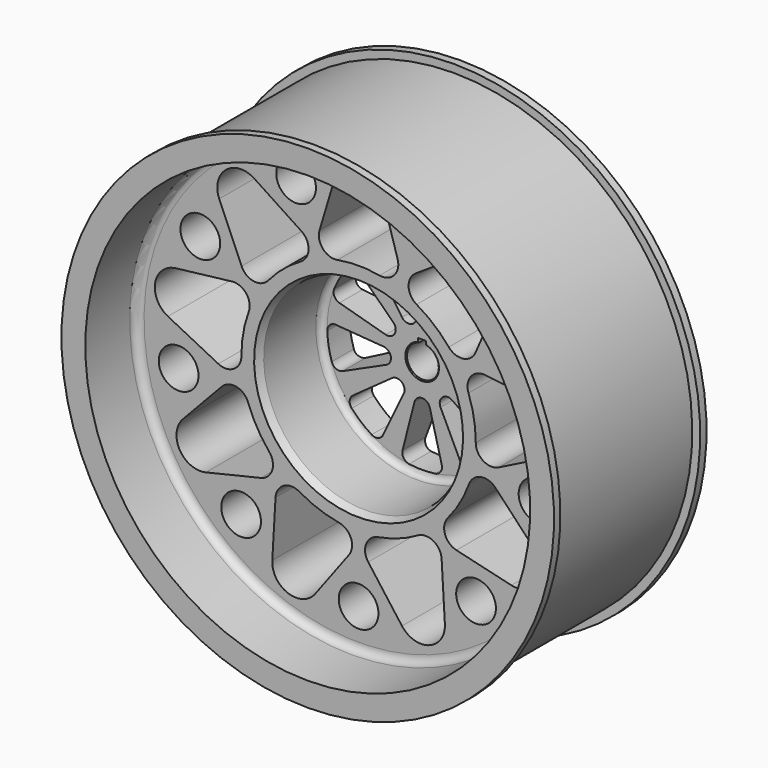
from build123d import *

# Parameters (mm, degrees)
F2_W      = 3.175
F2_H      = 3.175
F3_DEPTH  = 76.201
F5_DEPTH  = 48.0271238716
F6_R      = 7.9375
F7_DEPTH  = 50.8
F8_SIZE2  = 3.175
F8_SIZE   = 1.27
F9_SIZE   = 0.381
F11_DEPTH = 18.4485631489


with BuildPart() as f1:
    # F0 (on Right) → F1 (revolve)
    with BuildSketch(Plane.YZ):
        with BuildLine():
            Line((34.925, 95.25), (-34.925, 95.25))
            Line((-34.925, 95.25), (-34.925, 98.425))
            Line((-34.925, 98.425), (-38.1, 98.425))
            Line((-38.1, 98.425), (-38.1, 88.9))
            Line((-38.1, 88.9), (-15.875, 88.9))
            ThreePointArc((-15.875, 88.9), (-13.6299359697, 87.9700640303), (-12.7, 85.725))
            Line((-12.7, 85.725), (-12.7, 40.48125))
            Line((-12.7, 40.48125), (16.51, 40.48125))
            ThreePointArc((16.51, 40.48125), (18.3060512242, 39.7373012242), (19.05, 37.94125))
            Line((19.05, 37.94125), (19.05, 6.35))
            Line((19.05, 6.35), (38.1, 6.35))
            Line((38.1, 6.35), (38.1, 11.43))
            ThreePointArc((38.1, 11.43), (29.2175591667, 50.165), (38.1, 88.9))
            Line((38.1, 88.9), (38.1, 98.425))
            Line((38.1, 98.425), (34.925, 98.425))
            Line((34.925, 98.425), (34.925, 95.25))
        make_face()
    revolve(axis=Axis((0, 3.5200826824, 0), (0, 1, 0)))

    # F2 (on face) → F3 (cut, through all)
    with BuildSketch(Plane(origin=(0, 38.1, 0), x_dir=(-1, 0, 0), z_dir=(0, 1, 0))):
        with Locations((0, 6.35)):
            Rectangle(F2_W, F2_H)
    extrude(amount=-F3_DEPTH, mode=Mode.SUBTRACT)

    # F4 (on face) → F5 (cut, through all)
    with BuildSketch(Plane.XZ.offset(12.7)):
        with BuildLine():
            ThreePointArc((-8.3876865672, 46.0739914769), (0, 46.83125), (8.3876865672, 46.0739914769))
            ThreePointArc((8.3876865672, 46.0739914769), (14.2580132906, 48.0879820832), (15.6072668855, 54.1457381643))
            Line((15.6072668855, 54.1457381643), (9.1234003283, 75.7616387138))
            ThreePointArc((9.1234003283, 75.7616387138), (0, 82.55), (-9.1234003283, 75.7616387138))
            Line((-9.1234003283, 75.7616387138), (-15.6072668855, 54.1457381643))
            ThreePointArc((-15.6072668855, 54.1457381643), (-14.2580132906, 48.0879820832), (-8.3876865672, 46.0739914769))
        make_face()
        with BuildLine():
            Line((-22.8483495394, 51.5101996144), (-41.7097125309, 63.9011910275))
            ThreePointArc((-41.7097125309, 63.9011910275), (-53.0621171796, 63.2369687795), (-55.6875727786, 52.172373649))
            Line((-55.6875727786, 52.172373649), (-46.7600696793, 31.4458840643))
            ThreePointArc((-46.7600696793, 31.4458840643), (-41.8326309091, 27.6726571737), (-36.0411315356, 29.9032241439))
            ThreePointArc((-36.0411315356, 29.9032241439), (-30.1025472461, 35.8748188268), (-23.1904501648, 40.6862261425))
            ThreePointArc((-23.1904501648, 40.6862261425), (-19.9880872067, 46.0024057376), (-22.8483495394, 51.5101996144))
        make_face()
        with BuildLine():
            Line((-50.6129692837, 24.7724661929), (-73.0263873451, 22.1406658768))
            ThreePointArc((-73.0263873451, 22.1406658768), (-81.2958800112, 14.3346570664), (-76.1949110274, 4.1710751226))
            Line((-76.1949110274, 4.1710751226), (-56.0333161898, -5.9678486715))
            ThreePointArc((-56.0333161898, -5.9678486715), (-49.8332956073, -5.6910115747), (-46.8305305059, -0.2595941034))
            ThreePointArc((-46.8305305059, -0.2595941034), (-46.1197780833, 8.1321612204), (-43.9175175314, 16.260923419))
            ThreePointArc((-43.9175175314, 16.260923419), (-44.8815395572, 22.3917924875), (-50.6129692837, 24.7724661929))
        make_face()
        with BuildLine():
            Line((-54.6952181997, -13.5565794756), (-70.1732039226, -29.9797229037))
            ThreePointArc((-70.1732039226, -29.9797229037), (-71.4903970824, -41.275), (-61.0498035943, -45.7819158101))
            Line((-61.0498035943, -45.7819158101), (-39.0879513142, -40.5891586887))
            ThreePointArc((-39.0879513142, -40.5891586887), (-34.5164074555, -36.3917927587), (-35.7074037892, -30.3009453846))
            ThreePointArc((-35.7074037892, -30.3009453846), (-40.557052191, -23.415625), (-44.0950903563, -15.7730460923))
            ThreePointArc((-44.0950903563, -15.7730460923), (-48.7744207461, -11.6961893245), (-54.6952181997, -13.5565794756))
        make_face()
        with BuildLine():
            Line((-33.1849666504, -45.5423509429), (-34.4851984964, -68.0722661501))
            ThreePointArc((-34.4851984964, -68.0722661501), (-28.2337628315, -77.5716258459), (-17.3388145665, -74.3130395259))
            Line((-17.3388145665, -74.3130395259), (-3.8528996045, -56.2183502571))
            ThreePointArc((-3.8528996045, -56.2183502571), (-3.0489086481, -50.0644496612), (-7.8763859959, -46.1641475629))
            ThreePointArc((-7.8763859959, -46.1641475629), (-16.0172308371, -44.0069800472), (-23.6400803411, -40.4266320391))
            ThreePointArc((-23.6400803411, -40.4266320391), (-29.8452084006, -40.3113941629), (-33.1849666504, -45.5423509429))
        make_face()
        with BuildLine():
            Line((3.8528996045, -56.2183502571), (17.3388145665, -74.3130395259))
            ThreePointArc((17.3388145665, -74.3130395259), (28.2337628315, -77.5716258459), (34.4851984964, -68.0722661501))
            Line((34.4851984964, -68.0722661501), (33.1849666504, -45.5423509429))
            ThreePointArc((33.1849666504, -45.5423509429), (29.8452084006, -40.3113941629), (23.6400803411, -40.4266320391))
            ThreePointArc((23.6400803411, -40.4266320391), (16.0172308371, -44.0069800472), (7.8763859959, -46.1641475629))
            ThreePointArc((7.8763859959, -46.1641475629), (3.0489086481, -50.0644496612), (3.8528996045, -56.2183502571))
        make_face()
        with BuildLine():
            Line((39.0879513142, -40.5891586887), (61.0498035943, -45.7819158101))
            ThreePointArc((61.0498035943, -45.7819158101), (71.4903970824, -41.275), (70.1732039226, -29.9797229037))
            Line((70.1732039226, -29.9797229037), (54.6952181997, -13.5565794756))
            ThreePointArc((54.6952181997, -13.5565794756), (48.7744207461, -11.6961893245), (44.0950903563, -15.7730460923))
            ThreePointArc((44.0950903563, -15.7730460923), (40.557052191, -23.415625), (35.7074037892, -30.3009453846))
            ThreePointArc((35.7074037892, -30.3009453846), (34.5164074555, -36.3917927587), (39.0879513142, -40.5891586887))
        make_face()
        with BuildLine():
            Line((56.0333161898, -5.9678486715), (76.1949110274, 4.1710751226))
            ThreePointArc((76.1949110274, 4.1710751226), (81.2958800112, 14.3346570664), (73.0263873451, 22.1406658768))
            Line((73.0263873451, 22.1406658768), (50.6129692837, 24.7724661929))
            ThreePointArc((50.6129692837, 24.7724661929), (44.8815395572, 22.3917924875), (43.9175175314, 16.260923419))
            ThreePointArc((43.9175175314, 16.260923419), (46.1197780833, 8.1321612204), (46.8305305059, -0.2595941034))
            ThreePointArc((46.8305305059, -0.2595941034), (49.8332956073, -5.6910115747), (56.0333161898, -5.9678486715))
        make_face()
        with BuildLine():
            Line((46.7600696793, 31.4458840643), (55.6875727786, 52.172373649))
            ThreePointArc((55.6875727786, 52.172373649), (53.0621171796, 63.2369687795), (41.7097125309, 63.9011910275))
            Line((41.7097125309, 63.9011910275), (22.8483495394, 51.5101996144))
            ThreePointArc((22.8483495394, 51.5101996144), (19.9880872067, 46.0024057376), (23.1904501648, 40.6862261425))
            ThreePointArc((23.1904501648, 40.6862261425), (30.1025472461, 35.8748188268), (36.0411315356, 29.9032241439))
            ThreePointArc((36.0411315356, 29.9032241439), (41.8326309091, 27.6726571737), (46.7600696793, 31.4458840643))
        make_face()
    extrude(amount=-F5_DEPTH, mode=Mode.SUBTRACT)

    # F6 (on Front) → F7 (cut, symmetric)
    with BuildSketch(Plane.XZ):
        with Locations((0, -73.025)):
            Circle(F6_R)
        with Locations((46.9395651974, -55.9403954588)):
            Circle(F6_R)
        with Locations((71.9155861637, -12.6806581741)):
            Circle(F6_R)
        with Locations((63.2415051114, 36.5125)):
            Circle(F6_R)
        with Locations((24.9760209664, 68.6210536329)):
            Circle(F6_R)
        with Locations((-24.9760209664, 68.6210536329)):
            Circle(F6_R)
        with Locations((-63.2415051114, 36.5125)):
            Circle(F6_R)
        with Locations((-71.9155861637, -12.6806581741)):
            Circle(F6_R)
        with Locations((-46.9395651974, -55.9403954588)):
            Circle(F6_R)
    extrude(amount=F7_DEPTH, both=True, mode=Mode.SUBTRACT)

    # F8
    f8_edges = [f1.edges().sort_by_distance(p)[0] for p in [
        (0, -12.7, -40.48125),
    ]]
    f8_side = f1.faces().sort_by_distance((0, -12.7, -83.300331))[0]
    chamfer(f8_edges, length=F8_SIZE, length2=F8_SIZE2, reference=f8_side)

    # F9
    f9_edges = [f1.edges().sort_by_distance(p)[0] for p in [
        (0, 19.05, -6.35),
    ]]
    chamfer(f9_edges, length=F9_SIZE)

    # F10 (on face) → F11 (cut, through all)
    with BuildSketch(Plane.XZ.offset(-19.05)):
        with BuildLine():
            Line((7.8379030575, -33.64950652), (3.0754030575, -15.0859999785))
            ThreePointArc((3.0754030575, -15.0859999785), (0, -12.7), (-3.0754030575, -15.0859999785))
            Line((-3.0754030575, -15.0859999785), (-7.8379030575, -33.64950652))
            ThreePointArc((-7.8379030575, -33.64950652), (-7.3987546691, -36.2079093559), (-5.1974325501, -37.5835754878))
            ThreePointArc((-5.1974325501, -37.5835754878), (-5.266e-07, -37.94125), (5.1974315068, -37.5835756321))
            ThreePointArc((5.1974315068, -37.5835756321), (7.3987543756, -36.2079097932), (7.8379030575, -33.64950652))
        make_face()
        with BuildLine():
            Line((27.633667946, -20.7389105121), (12.0529892884, -9.5797154722))
            ThreePointArc((12.0529892884, -9.5797154722), (8.163402643, -9.7287644276), (7.3411984433, -13.5333774325))
            Line((7.3411984433, -13.5333774325), (15.6253037802, -30.8151244546))
            ThreePointArc((15.6253037802, -30.8151244546), (17.6062206064, -32.4926955875), (20.1767923278, -32.1315344004))
            ThreePointArc((20.1767923278, -32.1315344004), (24.3881649926, -29.064684066), (28.1397202683, -25.4498446907))
            ThreePointArc((28.1397202683, -25.4498446907), (28.9417704632, -22.9810404543), (27.633667946, -20.7389105121))
        make_face()
        with BuildLine():
            Line((34.4993324886, 1.8756522118), (15.3908478772, 0.4090243701))
            ThreePointArc((15.3908478772, 0.4090243701), (12.5070584633, -2.2053318564), (14.3227716042, -5.6483371792))
            Line((14.3227716042, -5.6483371792), (31.7772573233, -13.562003185))
            ThreePointArc((31.7772573233, -13.562003185), (34.3730495888, -13.5737884376), (36.1100718355, -11.6447912648))
            ThreePointArc((36.1100718355, -11.6447912648), (37.3648370675, -6.5884294395), (37.9151211781, -1.407848575))
            ThreePointArc((37.9151211781, -1.407848575), (36.942610499, 0.998913119), (34.4993324886, 1.8756522118))
        make_face()
        with BuildLine():
            Line((25.2223759424, 23.6125764202), (11.5271576941, 10.2063771639))
            ThreePointArc((11.5271576941, 10.2063771639), (10.9985226281, 6.35), (14.6025607516, 4.8796228146))
            Line((14.6025607516, 4.8796228146), (33.0602789999, 10.0369300998))
            ThreePointArc((33.0602789999, 10.0369300998), (35.0563466547, 11.6964451781), (35.1470474126, 14.290679121))
            ThreePointArc((35.1470474126, 14.290679121), (32.8580866146, 18.9706245439), (29.949615509, 23.2928955354))
            ThreePointArc((29.949615509, 23.2928955354), (27.657592511, 24.5114641423), (25.2223759424, 23.6125764202))
        make_face()
        with BuildLine():
            Line((4.1435893773, 34.300913697), (2.2697823158, 15.2280526514))
            ThreePointArc((2.2697823158, 15.2280526514), (4.3436558202, 11.934096284), (8.0496494339, 13.1243530624))
            Line((8.0496494339, 13.1243530624), (18.8740287084, 28.9394722428))
            ThreePointArc((18.8740287084, 28.9394722428), (19.336389513, 31.4937821035), (17.7383288894, 33.5393819229))
            ThreePointArc((17.7383288894, 33.5393819229), (12.9766722578, 35.6531124683), (7.9703518904, 37.0946349531))
            ThreePointArc((7.9703518904, 37.0946349531), (5.4312796072, 36.5548286787), (4.1435893773, 34.300913697))
        make_face()
        with BuildLine():
            Line((-18.8740287084, 28.9394722428), (-8.0496494339, 13.1243530624))
            ThreePointArc((-8.0496494339, 13.1243530624), (-4.3436558202, 11.934096284), (-2.2697823158, 15.2280526514))
            Line((-2.2697823158, 15.2280526514), (-4.1435893773, 34.300913697))
            ThreePointArc((-4.1435893773, 34.300913697), (-5.4312791819, 36.5548283682), (-7.9703508606, 37.0946351744))
            ThreePointArc((-7.9703508606, 37.0946351744), (-12.9766712681, 35.6531128285), (-17.7383279584, 33.5393824153))
            ThreePointArc((-17.7383279584, 33.5393824153), (-19.3363893868, 31.4937826148), (-18.8740287084, 28.9394722428))
        make_face()
        with BuildLine():
            Line((-33.0602789999, 10.0369300998), (-14.6025607516, 4.8796228146))
            ThreePointArc((-14.6025607516, 4.8796228146), (-10.9985226281, 6.35), (-11.5271576941, 10.2063771639))
            Line((-11.5271576941, 10.2063771639), (-25.2223759424, 23.6125764202))
            ThreePointArc((-25.2223759424, 23.6125764202), (-27.6575919856, 24.5114641778), (-29.9496148624, 23.2928963668))
            ThreePointArc((-29.9496148624, 23.2928963668), (-32.858086088, 18.9706254561), (-35.1470470159, 14.2906800967))
            ThreePointArc((-35.1470470159, 14.2906800967), (-35.0563468867, 11.6964456509), (-33.0602789999, 10.0369300998))
        make_face()
        with BuildLine():
            Line((-31.7772573233, -13.562003185), (-14.3227716042, -5.6483371792))
            ThreePointArc((-14.3227716042, -5.6483371792), (-12.5070584633, -2.2053318564), (-15.3908478772, 0.4090243701))
            Line((-15.3908478772, 0.4090243701), (-34.4993324886, 1.8756522118))
            ThreePointArc((-34.4993324886, 1.8756522118), (-36.9426101194, 0.998913484), (-37.9151212172, -1.4078475225))
            ThreePointArc((-37.9151212172, -1.4078475225), (-37.3648372504, -6.5884284023), (-36.1100721587, -11.6447902624))
            ThreePointArc((-36.1100721587, -11.6447902624), (-34.3730500704, -13.5737882245), (-31.7772573233, -13.562003185))
        make_face()
        with BuildLine():
            Line((-15.6253037802, -30.8151244546), (-7.3411984433, -13.5333774325))
            ThreePointArc((-7.3411984433, -13.5333774325), (-8.163402643, -9.7287644276), (-12.0529892884, -9.5797154722))
            Line((-12.0529892884, -9.5797154722), (-27.633667946, -20.7389105121))
            ThreePointArc((-27.633667946, -20.7389105121), (-28.9417704069, -22.9810399306), (-28.1397209748, -25.4498439096))
            ThreePointArc((-28.1397209748, -25.4498439096), (-24.3881657994, -29.064683389), (-20.1767932197, -32.1315338403))
            ThreePointArc((-20.1767932197, -32.1315338403), (-17.6062211122, -32.4926957338), (-15.6253037802, -30.8151244546))
        make_face()
    extrude(amount=-F11_DEPTH, mode=Mode.SUBTRACT)


solid = f1.part
